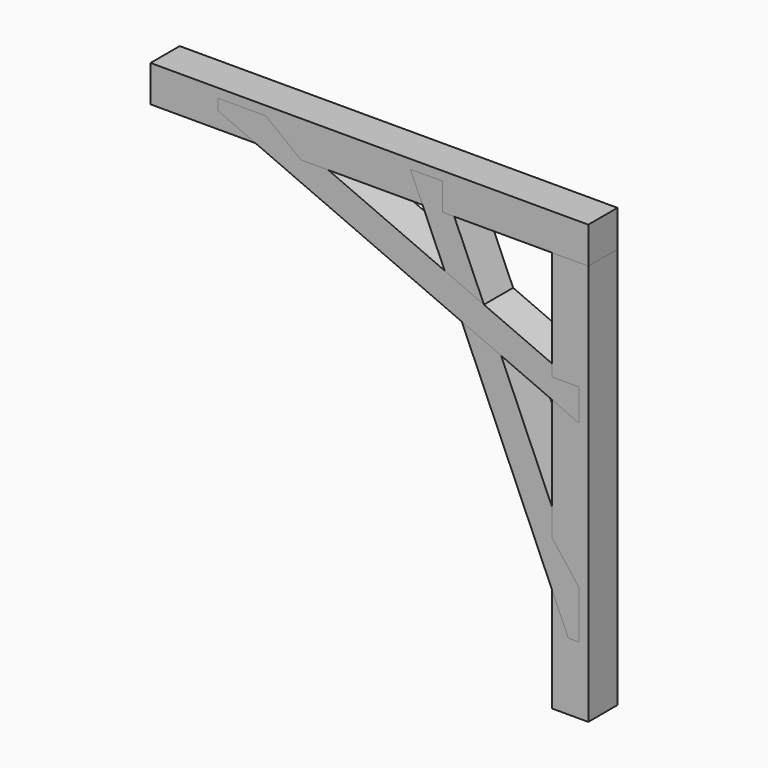
from build123d import *

# Parameters (mm, degrees)
F1_DEPTH = 100
F2_DEPTH = 100
F0_W     = 100
F0_H     = 100
F3_DEPTH = 100
F4_DEPTH = 100


with BuildPart() as f1:
    # F0 (on Front) → F1 (new body)
    with BuildSketch(Plane.XZ):
        Polygon((745.445527441, 1100), (800, 1100), (800, 1175), (712.7128439056, 1175), align=None)
        Polygon((913.9371630128, 913.9371630128), (832.7326835354, 1100), (800, 1100), (745.445527441, 1100), (806.1118525432, 960.9959865422), align=None)
        Polygon((806.1118525432, 960.9959865422), (853.1706760726, 853.1706760726), (960.9959865422, 806.1118525432), (913.9371630128, 913.9371630128), align=None)
        Polygon((960.9959865422, 806.1118525432), (853.1706760726, 853.1706760726), (1100, 287.6136457566), (1100, 412.6136457566), (1100, 487.6136457566), align=None)
        Polygon((1100, 412.6136457566), (1100, 287.6136457566), (1145, 184.5056926201), (1175, 184.5056926201), (1175, 315.7670571958), align=None)
    extrude(amount=F1_DEPTH)


with BuildPart() as f2:
    # F0 (on Front) → F2 (new body)
    with BuildSketch(Plane.XZ):
        Polygon((184.5056926201, 1145), (287.6136457566, 1100), (412.6136457566, 1100), (315.7670571958, 1175), (184.5056926201, 1175), align=None)
        Polygon((412.6136457566, 1100), (287.6136457566, 1100), (853.1706760726, 853.1706760726), (806.1118525432, 960.9959865422), (487.6136457566, 1100), align=None)
        Polygon((806.1118525432, 960.9959865422), (853.1706760726, 853.1706760726), (960.9959865422, 806.1118525432), (913.9371630128, 913.9371630128), align=None)
        Polygon((1100, 800), (1100, 832.7326835354), (913.9371630128, 913.9371630128), (960.9959865422, 806.1118525432), (1100, 745.445527441), align=None)
        Polygon((1175, 800), (1100, 800), (1100, 745.445527441), (1175, 712.7128439056), align=None)
    extrude(amount=F2_DEPTH)


with BuildPart() as f3:
    # F0 (on Front) → F3 (new body)
    with BuildSketch(Plane.XZ):
        Polygon((1100, 1200), (0, 1200), (0, 1100), (287.6136457566, 1100), (184.5056926201, 1145), (184.5056926201, 1175), (315.7670571958, 1175), (412.6136457566, 1100), (487.6136457566, 1100), (745.445527441, 1100), (712.7128439056, 1175), (800, 1175), (800, 1100), (832.7326835354, 1100), (1100, 1100), align=None)
        with Locations((1150, 1150)):
            Rectangle(F0_W, F0_H)
    extrude(amount=F3_DEPTH)


with BuildPart() as f4:
    # F0 (on Front) → F4 (new body)
    with BuildSketch(Plane.XZ):
        Polygon((1200, 1100), (1100, 1100), (1100, 832.7326835354), (1100, 800), (1175, 800), (1175, 712.7128439056), (1100, 745.445527441), (1100, 487.6136457566), (1100, 412.6136457566), (1175, 315.7670571958), (1175, 184.5056926201), (1145, 184.5056926201), (1100, 287.6136457566), (1100, 0), (1200, 0), align=None)
    extrude(amount=F4_DEPTH)


solid = Compound([f1.part, f2.part, f3.part, f4.part])
